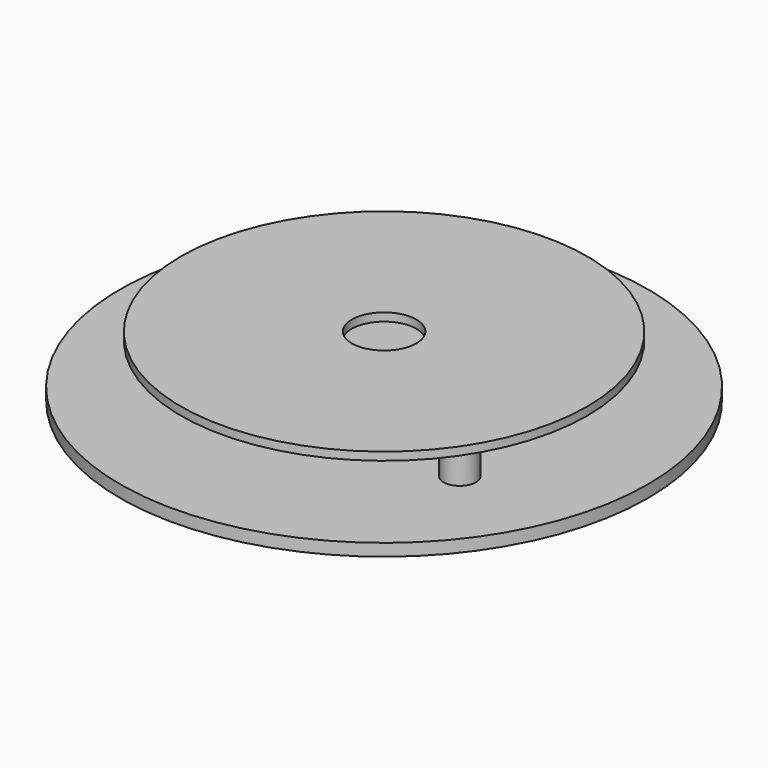
from build123d import *

# Parameters (mm, degrees)
SKETCH_R        = 65
PAD_DEPTH       = 3
SKETCH001_R     = 5
POCKET_DEPTH    = 1
SKETCH003_R     = 4
SKETCH003_R_2   = 1.5
PAD001_DEPTH    = 10
SKETCH005_R     = 50.047019
PAD002_DEPTH    = 2
SKETCH007_R     = 7.952006
POCKET001_DEPTH = 5


with BuildPart() as part:
    # Sketch → Pad (new body)
    with BuildSketch(Plane.XY):
        Circle(SKETCH_R)
    extrude(amount=PAD_DEPTH)

    # Sketch001 (on Face2 of Pad) → Pocket (cut)
    with BuildSketch(Plane(origin=(0, 0, 0), x_dir=(1, 0, 0), z_dir=(0, 0, -1))):
        with Locations((0, 45)):
            Circle(SKETCH001_R)
        with Locations((40.055428, -20.507625)):
            Circle(SKETCH001_R)
        with Locations((-40.055428, -20.507625)):
            Circle(SKETCH001_R)
    extrude(amount=-POCKET_DEPTH, mode=Mode.SUBTRACT)

    # Sketch003 (on Face3 of Pocket) → Pad001 (join)
    with BuildSketch(Plane.XY.offset(3)):
        with Locations((0, 40)):
            Circle(SKETCH003_R)
        with Locations((0, 40)):
            Circle(SKETCH003_R_2, mode=Mode.SUBTRACT)
        with Locations((-34.641016, -20)):
            Circle(SKETCH003_R)
        with Locations((-34.641016, -20)):
            Circle(SKETCH003_R_2, mode=Mode.SUBTRACT)
        with Locations((34.641016, -20)):
            Circle(SKETCH003_R)
        with Locations((34.641016, -20)):
            Circle(SKETCH003_R_2, mode=Mode.SUBTRACT)
    extrude(amount=PAD001_DEPTH)

    # Sketch005 (on Face15 of Pad001) → Pad002 (join)
    with BuildSketch(Plane.XY.offset(13)):
        Circle(SKETCH005_R)
    extrude(amount=PAD002_DEPTH)

    # Sketch007 (on Face3 of Pad002) → Pocket001 (cut)
    with BuildSketch(Plane.XY.offset(15)):
        Circle(SKETCH007_R)
    extrude(amount=-POCKET001_DEPTH, mode=Mode.SUBTRACT)


solid = part.part
